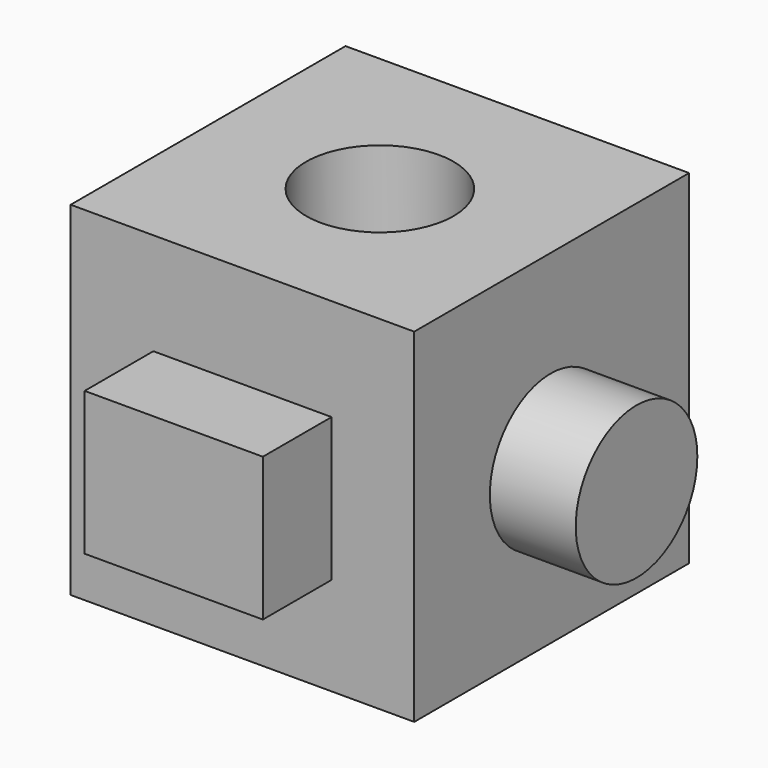
from build123d import *

# Parameters (mm, degrees)
F0_W      = 50.8
F0_H      = 50.8
F1_DEPTH  = 50.8
F2_R      = 10.8954734827
F3_DEPTH  = 25.4
F4_W      = 25.4
F4_H      = 25.4
F5_DEPTH  = 25.4
F6_DEPTH  = 12.7
F7_DEPTH  = 38.1
F8_W      = 26.3517424464
F8_H      = 21.1959667504
F9_DEPTH  = 12.7
F10_R     = 11.2387805826
F11_DEPTH = 12.7


with BuildPart() as f1:
    # F0 (on Front) → F1 (new body)
    with BuildSketch(Plane.XZ):
        with Locations((-25.4, 25.4)):
            Rectangle(F0_W, F0_H)
    extrude(amount=F1_DEPTH)

    # F2 (on face) → F3 (cut)
    with BuildSketch(Plane.XY.offset(50.8)):
        with Locations((-25.4, -25.4)):
            Circle(F2_R)
    extrude(amount=-F3_DEPTH, mode=Mode.SUBTRACT)

    # F4 (on face) → F5 (join)
    with BuildSketch(Plane.XZ.offset(50.8)):
        with Locations((-25.4, 25.4)):
            Rectangle(F4_W, F4_H)
    extrude(amount=F5_DEPTH)

    # F6 (add): a face of the model
    f6_faces = [f1.faces().sort_by_distance(p)[0] for p in [
        (-25.4, -76.2, 25.4),
    ]]
    extrude(f6_faces, amount=F6_DEPTH)

    # F7 (cut): a face of the model
    f7_faces = [f1.faces().sort_by_distance(p)[0] for p in [
        (-25.4, -88.9, 25.4),
    ]]
    extrude(f7_faces, amount=-F7_DEPTH, mode=Mode.SUBTRACT)

    # F8 (on face) → F9 (join)
    with BuildSketch(Plane.XZ.offset(50.8)):
        with Locations((-25.3969691694, 25.1105371863)):
            Rectangle(F8_W, F8_H)
    extrude(amount=F9_DEPTH)

    # F10 (on face) → F11 (join)
    with BuildSketch(Plane.YZ):
        with Locations((-25.5879238248, 23.8693319261)):
            Circle(F10_R)
    extrude(amount=F11_DEPTH)


solid = f1.part
